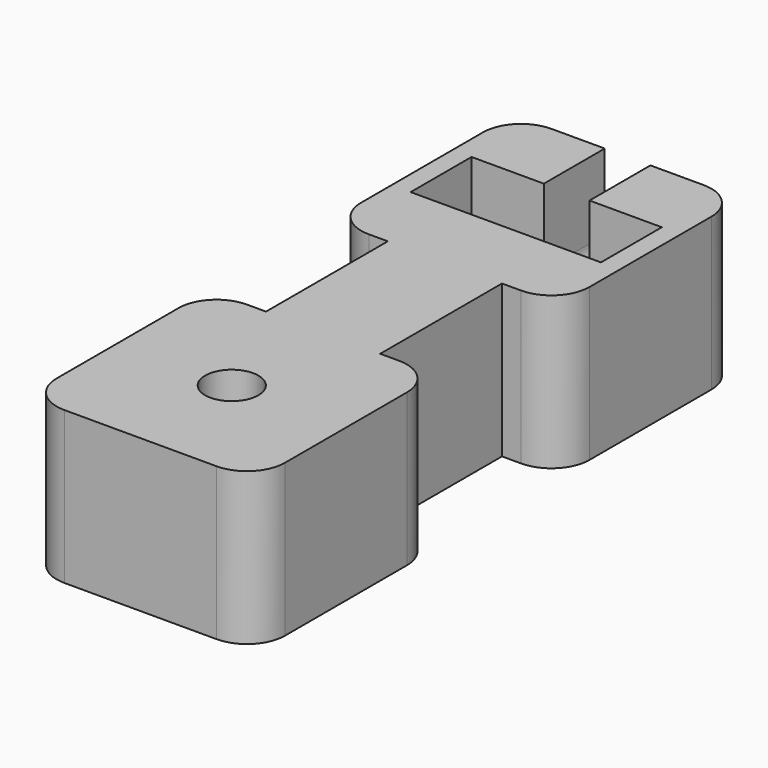
from build123d import *

# Parameters (mm, degrees)
F0_W     = 30
F0_H     = 80
F1_DEPTH = 20
F2_R     = 3.5
F3_DEPTH = 20
F4_W     = 25
F4_H     = 10
F5_DEPTH = 20
F7_DEPTH = 20
F8_W     = 7.5
F8_H     = 20
F9_DEPTH = 20
F10_R    = 5
F11_R    = 5


with BuildPart() as f1:
    # F0 (on Top) → F1 (new body)
    with BuildSketch(Plane.XY):
        with Locations((15, 40)):
            Rectangle(F0_W, F0_H)
    extrude(amount=F1_DEPTH)

    # F2 (on Top) → F3 (cut)
    with BuildSketch(Plane.XY):
        with Locations((15, 15)):
            Circle(F2_R)
    extrude(amount=F3_DEPTH, mode=Mode.SUBTRACT)

    # F4 (on Top) → F5 (cut)
    with BuildSketch(Plane.XY):
        with Locations((15, 65)):
            Rectangle(F4_W, F4_H)
    extrude(amount=F5_DEPTH, mode=Mode.SUBTRACT)

    # F6 (on face) → F7 (cut)
    with BuildSketch(Plane(origin=(0, 80, 0), x_dir=(-1, 0, 0), z_dir=(0, 1, 0))):
        with BuildLine():
            ThreePointArc((-12, 10), (-15, 13), (-18, 10))
            Line((-18, 10), (-12, 10))
        make_face()
        with BuildLine():
            Line((-18, 20), (-18, 10))
            ThreePointArc((-18, 10), (-15, 13), (-12, 10))
            Line((-12, 10), (-12, 20))
            Line((-12, 20), (-18, 20))
        make_face()
        with BuildLine():
            Line((-12, 10), (-18, 10))
            ThreePointArc((-18, 10), (-15, 7), (-12, 10))
        make_face()
    extrude(amount=-F7_DEPTH, mode=Mode.SUBTRACT)

    # F8 (on face) → F9 (cut)
    with BuildSketch(Plane.XY.offset(20)):
        with Locations((26.25, 40)):
            Rectangle(F8_W, F8_H)
        with Locations((3.75, 40)):
            Rectangle(F8_W, F8_H)
    extrude(amount=-F9_DEPTH, mode=Mode.SUBTRACT)

    # F10
    f10_edges = [f1.edges().sort_by_distance(p)[0] for p in [
        (30, 30, 10),
        (0, 30, 10),
        (0, 0, 10),
        (30, 0, 10),
    ]]
    fillet(f10_edges, radius=F10_R)

    # F11
    f11_edges = [f1.edges().sort_by_distance(p)[0] for p in [
        (0, 80, 10),
        (0, 50, 10),
        (30, 50, 10),
        (30, 80, 10),
    ]]
    fillet(f11_edges, radius=F11_R)


solid = f1.part
